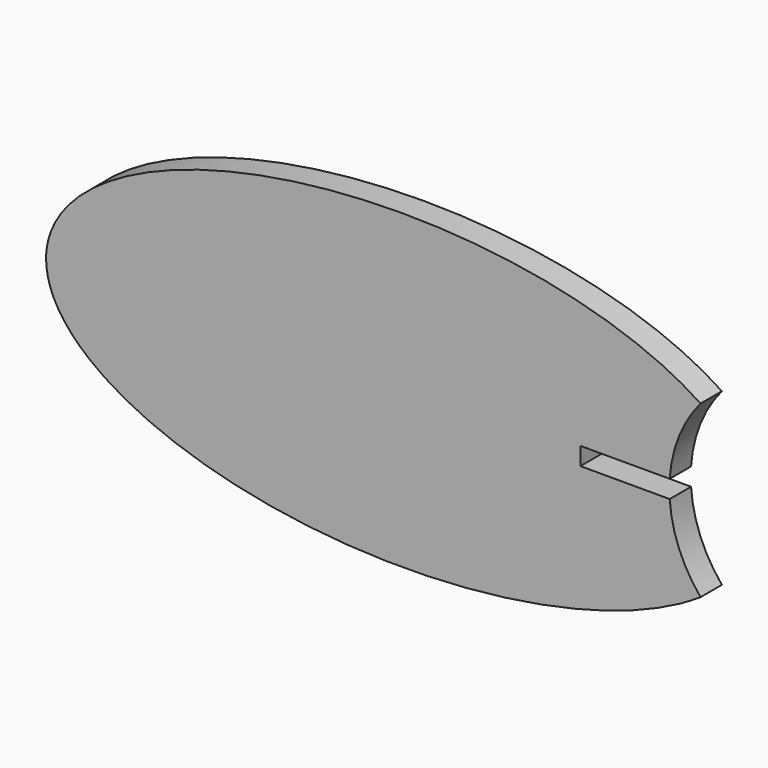
from build123d import *

# Parameters (mm, degrees)
F1_DEPTH = 3
F2_R     = 14.835774
F3_DEPTH = 25
F5_DEPTH = 25


with BuildPart() as f1:
    # F0 (on Front) → F1 (new body)
    with BuildSketch(Plane.XZ):
        with BuildLine():
            add(Edge.make_bspline(
                [(-40, 0), (-40, -30.310889), (20, -15.155445), (80, 0), (20, 15.155445), (-40, 30.310889), (-40, 0)],
                knots=[0, 0, 0, 2.094395, 2.094395, 4.18879, 4.18879, 6.283185, 6.283185, 6.283185], degree=2, weights=[1, 0.5, 1, 0.5, 1, 0.5, 1]))
        make_face()
    extrude(amount=F1_DEPTH)

    # F2 (on Front) → F3 (cut)
    with BuildSketch(Plane.XZ):
        with Locations((44.823118, 0)):
            Circle(F2_R)
    extrude(amount=F3_DEPTH, mode=Mode.SUBTRACT)

    # F4 (on Front) → F5 (cut)
    with BuildSketch(Plane.XZ):
        Polygon((35.474408, 1), (20, 1), (20, 0), (35.480917, 0), align=None)
        Polygon((40, 1), (35.474408, 1), (35.480917, 0), (35.487425, 0), (40, 0), align=None)
        Polygon((35.480917, 0), (20, 0), (20, -1), (35.487425, -1), align=None)
        Polygon((35.487425, 0), (35.480917, 0), (35.487425, -1), (40, -1), (40, 0), align=None)
    extrude(amount=F5_DEPTH, mode=Mode.SUBTRACT)


solid = f1.part
